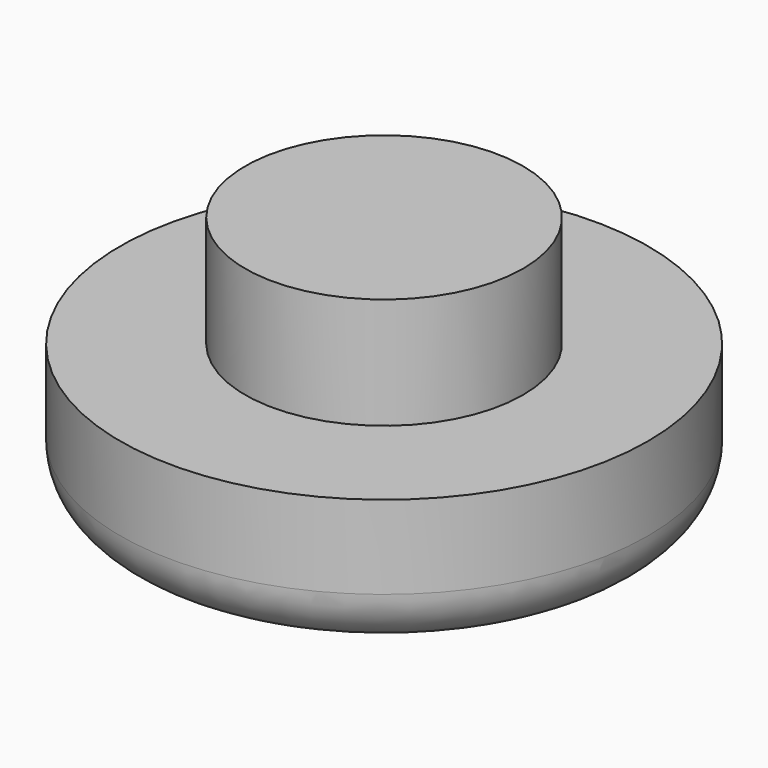
from build123d import *

# Parameters (mm, degrees)
F0_R     = 9.5
F1_DEPTH = 5
F2_R     = 5
F3_DEPTH = 9
F4_R     = 2


with BuildPart() as f1:
    # F0 (on Top) → F1 (new body)
    with BuildSketch(Plane.XY):
        Circle(F0_R)
    extrude(amount=F1_DEPTH)

    # F2 (on Top) → F3 (join)
    with BuildSketch(Plane.XY):
        Circle(F2_R)
    extrude(amount=F3_DEPTH)

    # F4
    f4_edges = [f1.edges().sort_by_distance(p)[0] for p in [
        (-9.5, 0, 0),
    ]]
    fillet(f4_edges, radius=F4_R)


solid = f1.part
